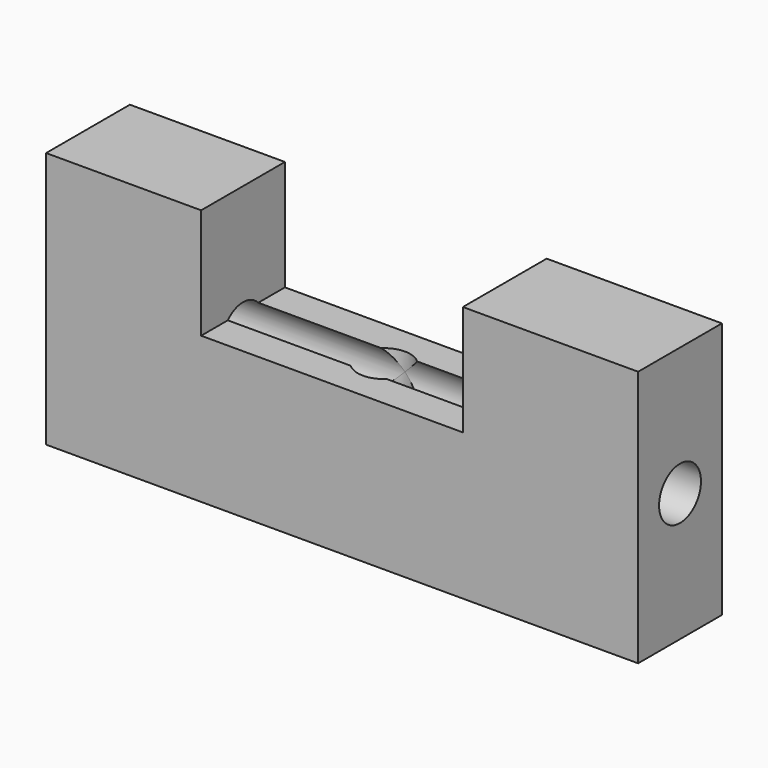
from build123d import *

# Parameters (mm, degrees)
F1_DEPTH = 25.4
F3_D     = 12.7
F5_D     = 12.7


with BuildPart() as f1:
    # F0 (on Front) → F1 (new body)
    with BuildSketch(Plane.XZ):
        Polygon((-34.180485, 31.123895), (-71.779169, 31.123895), (-71.779169, -31.123895), (71.779169, -31.123895), (71.779169, 31.123895), (29.286098, 31.123895), (29.286098, 4.353631), (-34.180485, 4.353631), align=None)
    extrude(amount=F1_DEPTH)

    # F3 (through all)
    with Locations(Plane.XY.offset(4.353631)):
        with Locations((0, -12.7)):
            Hole(F3_D / 2)

    # F5 (through all)
    with Locations(Plane(origin=(-71.779169, 0, 0), x_dir=(0, -1, 0), z_dir=(-1, 0, 0))):
        with Locations((12.7, 0)):
            Hole(F5_D / 2)


solid = f1.part
